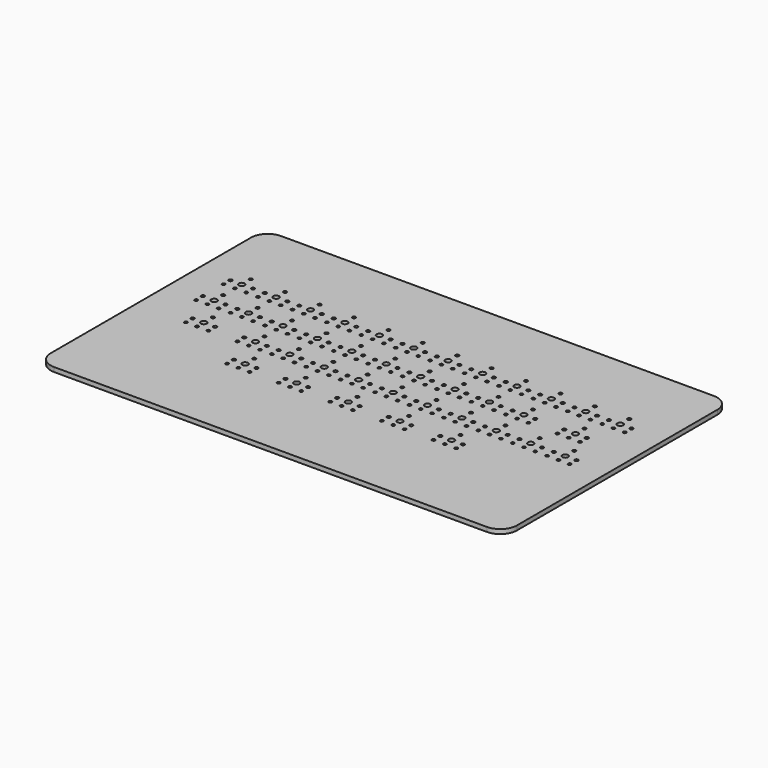
from build123d import *

# Parameters (mm, degrees)
F0_R     = 0.7
F0_R_2   = 0.775
F0_R_3   = 1.3
F0_R_4   = 0.75
F1_DEPTH = 2
F3_DEPTH = 2


with BuildPart() as f1:
    # F0 (on Top) → F1 (new body)
    with BuildSketch(Plane.XY):
        with BuildLine():
            Line((103.010971, 57.536927), (-91.989029, 57.536927))
            ThreePointArc((-91.989029, 57.536927), (-97.29233, 55.340228), (-99.489029, 50.036927))
            Line((-99.489029, 50.036927), (-99.489029, -54.963073))
            ThreePointArc((-99.489029, -54.963073), (-97.29233, -60.266374), (-91.989029, -62.463073))
            Line((-91.989029, -62.463073), (103.010971, -62.463073))
            ThreePointArc((103.010971, -62.463073), (108.314272, -60.266374), (110.510971, -54.963073))
            Line((110.510971, -54.963073), (110.510971, 50.036927))
            ThreePointArc((110.510971, 50.036927), (108.314272, 55.340228), (103.010971, 57.536927))
        make_face()
        with Locations((-77.069029, -14.723073)):
            Circle(F0_R, mode=Mode.SUBTRACT)
        with Locations((-77.069029, -10.913073)):
            Circle(F0_R_2, mode=Mode.SUBTRACT)
        with Locations((-71.989029, -14.723073)):
            Circle(F0_R, mode=Mode.SUBTRACT)
        with Locations((-66.909029, -14.723073)):
            Circle(F0_R, mode=Mode.SUBTRACT)
        with Locations((-71.989029, -10.913073)):
            Circle(F0_R_3, mode=Mode.SUBTRACT)
        with Locations((-66.909029, -10.913073)):
            Circle(F0_R_2, mode=Mode.SUBTRACT)
        with Locations((-53.819029, -14.723073)):
            Circle(F0_R, mode=Mode.SUBTRACT)
        with Locations((-48.739029, -14.723073)):
            Circle(F0_R, mode=Mode.SUBTRACT)
        with Locations((-53.819029, -10.913073)):
            Circle(F0_R_2, mode=Mode.SUBTRACT)
        with Locations((-48.739029, -10.913073)):
            Circle(F0_R_3, mode=Mode.SUBTRACT)
        with Locations((-71.989029, -5.833073)):
            Circle(F0_R_4, mode=Mode.SUBTRACT)
        with Locations((-48.739029, -5.833073)):
            Circle(F0_R_4, mode=Mode.SUBTRACT)
        with Locations((-46.069029, -30.223073)):
            Circle(F0_R, mode=Mode.SUBTRACT)
        with Locations((-40.989029, -30.223073)):
            Circle(F0_R, mode=Mode.SUBTRACT)
        with Locations((-35.909029, -30.223073)):
            Circle(F0_R, mode=Mode.SUBTRACT)
        with Locations((-46.069029, -26.413073)):
            Circle(F0_R_2, mode=Mode.SUBTRACT)
        with Locations((-40.989029, -26.413073)):
            Circle(F0_R_3, mode=Mode.SUBTRACT)
        with Locations((-35.909029, -26.413073)):
            Circle(F0_R_2, mode=Mode.SUBTRACT)
        with Locations((-22.819029, -30.223073)):
            Circle(F0_R, mode=Mode.SUBTRACT)
        with Locations((-22.819029, -26.413073)):
            Circle(F0_R_2, mode=Mode.SUBTRACT)
        with Locations((-40.989029, -21.333073)):
            Circle(F0_R_4, mode=Mode.SUBTRACT)
        with Locations((-17.739029, -30.223073)):
            Circle(F0_R, mode=Mode.SUBTRACT)
        with Locations((-12.659029, -30.223073)):
            Circle(F0_R, mode=Mode.SUBTRACT)
        with Locations((-17.739029, -26.413073)):
            Circle(F0_R_3, mode=Mode.SUBTRACT)
        with Locations((-12.659029, -26.413073)):
            Circle(F0_R_2, mode=Mode.SUBTRACT)
        with Locations((0.430971, -30.223073)):
            Circle(F0_R, mode=Mode.SUBTRACT)
        with Locations((0.430971, -26.413073)):
            Circle(F0_R_2, mode=Mode.SUBTRACT)
        with Locations((-17.739029, -21.333073)):
            Circle(F0_R_4, mode=Mode.SUBTRACT)
        with Locations((-43.659029, -14.723073)):
            Circle(F0_R, mode=Mode.SUBTRACT)
        with Locations((-38.319029, -14.723073)):
            Circle(F0_R, mode=Mode.SUBTRACT)
        with Locations((-43.659029, -10.913073)):
            Circle(F0_R_2, mode=Mode.SUBTRACT)
        with Locations((-38.319029, -10.913073)):
            Circle(F0_R_2, mode=Mode.SUBTRACT)
        with Locations((-33.239029, -14.723073)):
            Circle(F0_R, mode=Mode.SUBTRACT)
        with Locations((-28.159029, -14.723073)):
            Circle(F0_R, mode=Mode.SUBTRACT)
        with Locations((-22.819029, -14.723073)):
            Circle(F0_R, mode=Mode.SUBTRACT)
        with Locations((-33.239029, -10.913073)):
            Circle(F0_R_3, mode=Mode.SUBTRACT)
        with Locations((-28.159029, -10.913073)):
            Circle(F0_R_2, mode=Mode.SUBTRACT)
        with Locations((-22.819029, -10.913073)):
            Circle(F0_R_2, mode=Mode.SUBTRACT)
        with Locations((-33.239029, -5.833073)):
            Circle(F0_R_4, mode=Mode.SUBTRACT)
        with Locations((-17.739029, -14.723073)):
            Circle(F0_R, mode=Mode.SUBTRACT)
        with Locations((-12.659029, -14.723073)):
            Circle(F0_R, mode=Mode.SUBTRACT)
        with Locations((-17.739029, -10.913073)):
            Circle(F0_R_3, mode=Mode.SUBTRACT)
        with Locations((-12.659029, -10.913073)):
            Circle(F0_R_2, mode=Mode.SUBTRACT)
        with Locations((-7.319029, -14.723073)):
            Circle(F0_R, mode=Mode.SUBTRACT)
        with Locations((-2.239029, -14.723073)):
            Circle(F0_R, mode=Mode.SUBTRACT)
        with Locations((2.840971, -14.723073)):
            Circle(F0_R, mode=Mode.SUBTRACT)
        with Locations((-7.319029, -10.913073)):
            Circle(F0_R_2, mode=Mode.SUBTRACT)
        with Locations((-2.239029, -10.913073)):
            Circle(F0_R_3, mode=Mode.SUBTRACT)
        with Locations((2.840971, -10.913073)):
            Circle(F0_R_2, mode=Mode.SUBTRACT)
        with Locations((-17.739029, -5.833073)):
            Circle(F0_R_4, mode=Mode.SUBTRACT)
        with Locations((-2.239029, -5.833073)):
            Circle(F0_R_4, mode=Mode.SUBTRACT)
        with Locations((5.510971, -30.223073)):
            Circle(F0_R, mode=Mode.SUBTRACT)
        with Locations((10.590971, -30.223073)):
            Circle(F0_R, mode=Mode.SUBTRACT)
        with Locations((5.510971, -26.413073)):
            Circle(F0_R_3, mode=Mode.SUBTRACT)
        with Locations((10.590971, -26.413073)):
            Circle(F0_R_2, mode=Mode.SUBTRACT)
        with Locations((23.680971, -30.223073)):
            Circle(F0_R, mode=Mode.SUBTRACT)
        with Locations((28.760971, -30.223073)):
            Circle(F0_R, mode=Mode.SUBTRACT)
        with Locations((23.680971, -26.413073)):
            Circle(F0_R_2, mode=Mode.SUBTRACT)
        with Locations((28.760971, -26.413073)):
            Circle(F0_R_3, mode=Mode.SUBTRACT)
        with Locations((5.510971, -21.333073)):
            Circle(F0_R_4, mode=Mode.SUBTRACT)
        with Locations((28.760971, -21.333073)):
            Circle(F0_R_4, mode=Mode.SUBTRACT)
        with Locations((33.840971, -30.223073)):
            Circle(F0_R, mode=Mode.SUBTRACT)
        with Locations((33.840971, -26.413073)):
            Circle(F0_R_2, mode=Mode.SUBTRACT)
        with Locations((46.930971, -30.223073)):
            Circle(F0_R, mode=Mode.SUBTRACT)
        with Locations((52.010971, -30.223073)):
            Circle(F0_R, mode=Mode.SUBTRACT)
        with Locations((57.090971, -30.223073)):
            Circle(F0_R, mode=Mode.SUBTRACT)
        with Locations((46.930971, -26.413073)):
            Circle(F0_R_2, mode=Mode.SUBTRACT)
        with Locations((52.010971, -26.413073)):
            Circle(F0_R_3, mode=Mode.SUBTRACT)
        with Locations((57.090971, -26.413073)):
            Circle(F0_R_2, mode=Mode.SUBTRACT)
        with Locations((52.010971, -21.333073)):
            Circle(F0_R_4, mode=Mode.SUBTRACT)
        with Locations((8.180971, -14.723073)):
            Circle(F0_R, mode=Mode.SUBTRACT)
        with Locations((13.260971, -14.723073)):
            Circle(F0_R, mode=Mode.SUBTRACT)
        with Locations((18.340971, -14.723073)):
            Circle(F0_R, mode=Mode.SUBTRACT)
        with Locations((8.180971, -10.913073)):
            Circle(F0_R_2, mode=Mode.SUBTRACT)
        with Locations((13.260971, -10.913073)):
            Circle(F0_R_3, mode=Mode.SUBTRACT)
        with Locations((18.340971, -10.913073)):
            Circle(F0_R_2, mode=Mode.SUBTRACT)
        with Locations((23.680971, -14.723073)):
            Circle(F0_R, mode=Mode.SUBTRACT)
        with Locations((28.760971, -14.723073)):
            Circle(F0_R, mode=Mode.SUBTRACT)
        with Locations((23.680971, -10.913073)):
            Circle(F0_R_2, mode=Mode.SUBTRACT)
        with Locations((28.760971, -10.913073)):
            Circle(F0_R_3, mode=Mode.SUBTRACT)
        with Locations((13.260971, -5.833073)):
            Circle(F0_R_4, mode=Mode.SUBTRACT)
        with Locations((28.760971, -5.833073)):
            Circle(F0_R_4, mode=Mode.SUBTRACT)
        with Locations((33.840971, -14.723073)):
            Circle(F0_R, mode=Mode.SUBTRACT)
        with Locations((39.180971, -14.723073)):
            Circle(F0_R, mode=Mode.SUBTRACT)
        with Locations((44.260971, -14.723073)):
            Circle(F0_R, mode=Mode.SUBTRACT)
        with Locations((33.840971, -10.913073)):
            Circle(F0_R_2, mode=Mode.SUBTRACT)
        with Locations((39.180971, -10.913073)):
            Circle(F0_R_2, mode=Mode.SUBTRACT)
        with Locations((44.260971, -10.913073)):
            Circle(F0_R_3, mode=Mode.SUBTRACT)
        with Locations((49.340971, -14.723073)):
            Circle(F0_R, mode=Mode.SUBTRACT)
        with Locations((54.680971, -14.723073)):
            Circle(F0_R, mode=Mode.SUBTRACT)
        with Locations((49.340971, -10.913073)):
            Circle(F0_R_2, mode=Mode.SUBTRACT)
        with Locations((54.680971, -10.913073)):
            Circle(F0_R_2, mode=Mode.SUBTRACT)
        with Locations((44.260971, -5.833073)):
            Circle(F0_R_4, mode=Mode.SUBTRACT)
        with Locations((59.760971, -14.723073)):
            Circle(F0_R, mode=Mode.SUBTRACT)
        with Locations((64.840971, -14.723073)):
            Circle(F0_R, mode=Mode.SUBTRACT)
        with Locations((70.180971, -14.723073)):
            Circle(F0_R, mode=Mode.SUBTRACT)
        with Locations((59.760971, -10.913073)):
            Circle(F0_R_3, mode=Mode.SUBTRACT)
        with Locations((64.840971, -10.913073)):
            Circle(F0_R_2, mode=Mode.SUBTRACT)
        with Locations((70.180971, -10.913073)):
            Circle(F0_R_2, mode=Mode.SUBTRACT)
        with Locations((75.260971, -14.723073)):
            Circle(F0_R, mode=Mode.SUBTRACT)
        with Locations((80.340971, -14.723073)):
            Circle(F0_R, mode=Mode.SUBTRACT)
        with Locations((75.260971, -10.913073)):
            Circle(F0_R_3, mode=Mode.SUBTRACT)
        with Locations((80.340971, -10.913073)):
            Circle(F0_R_2, mode=Mode.SUBTRACT)
        with Locations((59.760971, -5.833073)):
            Circle(F0_R_4, mode=Mode.SUBTRACT)
        with Locations((75.260971, -5.833073)):
            Circle(F0_R_4, mode=Mode.SUBTRACT)
        with Locations((85.680971, -14.723073)):
            Circle(F0_R, mode=Mode.SUBTRACT)
        with Locations((90.760971, -14.723073)):
            Circle(F0_R, mode=Mode.SUBTRACT)
        with Locations((95.840971, -14.723073)):
            Circle(F0_R, mode=Mode.SUBTRACT)
        with Locations((85.680971, -10.913073)):
            Circle(F0_R_2, mode=Mode.SUBTRACT)
        with Locations((90.760971, -10.913073)):
            Circle(F0_R_3, mode=Mode.SUBTRACT)
        with Locations((95.840971, -10.913073)):
            Circle(F0_R_2, mode=Mode.SUBTRACT)
        with Locations((90.760971, -5.833073)):
            Circle(F0_R_4, mode=Mode.SUBTRACT)
        with Locations((-84.819029, 0.776927)):
            Circle(F0_R, mode=Mode.SUBTRACT)
        with Locations((-79.739029, 0.776927)):
            Circle(F0_R, mode=Mode.SUBTRACT)
        with Locations((-74.659029, 0.776927)):
            Circle(F0_R, mode=Mode.SUBTRACT)
        with Locations((-84.819029, 4.586927)):
            Circle(F0_R_2, mode=Mode.SUBTRACT)
        with Locations((-79.739029, 4.586927)):
            Circle(F0_R_3, mode=Mode.SUBTRACT)
        with Locations((-74.659029, 4.586927)):
            Circle(F0_R_2, mode=Mode.SUBTRACT)
        with Locations((-79.739029, 9.666927)):
            Circle(F0_R_4, mode=Mode.SUBTRACT)
        with Locations((-69.319029, 0.776927)):
            Circle(F0_R, mode=Mode.SUBTRACT)
        with Locations((-64.239029, 0.776927)):
            Circle(F0_R, mode=Mode.SUBTRACT)
        with Locations((-69.319029, 4.586927)):
            Circle(F0_R_2, mode=Mode.SUBTRACT)
        with Locations((-64.239029, 4.586927)):
            Circle(F0_R_3, mode=Mode.SUBTRACT)
        with Locations((-59.159029, 0.776927)):
            Circle(F0_R, mode=Mode.SUBTRACT)
        with Locations((-53.819029, 0.776927)):
            Circle(F0_R, mode=Mode.SUBTRACT)
        with Locations((-48.739029, 0.776927)):
            Circle(F0_R, mode=Mode.SUBTRACT)
        with Locations((-59.159029, 4.586927)):
            Circle(F0_R_2, mode=Mode.SUBTRACT)
        with Locations((-53.819029, 4.586927)):
            Circle(F0_R_2, mode=Mode.SUBTRACT)
        with Locations((-48.739029, 4.586927)):
            Circle(F0_R_3, mode=Mode.SUBTRACT)
        with Locations((-64.239029, 9.666927)):
            Circle(F0_R_4, mode=Mode.SUBTRACT)
        with Locations((-48.739029, 9.666927)):
            Circle(F0_R_4, mode=Mode.SUBTRACT)
        with Locations((-84.819029, 16.276927)):
            Circle(F0_R, mode=Mode.SUBTRACT)
        with Locations((-79.739029, 16.276927)):
            Circle(F0_R, mode=Mode.SUBTRACT)
        with Locations((-74.659029, 16.276927)):
            Circle(F0_R, mode=Mode.SUBTRACT)
        with Locations((-84.819029, 20.086927)):
            Circle(F0_R_2, mode=Mode.SUBTRACT)
        with Locations((-79.739029, 20.086927)):
            Circle(F0_R_3, mode=Mode.SUBTRACT)
        with Locations((-74.659029, 20.086927)):
            Circle(F0_R_2, mode=Mode.SUBTRACT)
        with Locations((-79.739029, 25.166927)):
            Circle(F0_R_4, mode=Mode.SUBTRACT)
        with Locations((-69.319029, 16.276927)):
            Circle(F0_R, mode=Mode.SUBTRACT)
        with Locations((-64.239029, 16.276927)):
            Circle(F0_R, mode=Mode.SUBTRACT)
        with Locations((-59.159029, 16.276927)):
            Circle(F0_R, mode=Mode.SUBTRACT)
        with Locations((-53.819029, 16.276927)):
            Circle(F0_R, mode=Mode.SUBTRACT)
        with Locations((-48.739029, 16.276927)):
            Circle(F0_R, mode=Mode.SUBTRACT)
        with Locations((-69.319029, 20.086927)):
            Circle(F0_R_2, mode=Mode.SUBTRACT)
        with Locations((-64.239029, 20.086927)):
            Circle(F0_R_3, mode=Mode.SUBTRACT)
        with Locations((-64.239029, 25.166927)):
            Circle(F0_R_4, mode=Mode.SUBTRACT)
        with Locations((-59.159029, 20.086927)):
            Circle(F0_R_2, mode=Mode.SUBTRACT)
        with Locations((-53.819029, 20.086927)):
            Circle(F0_R_2, mode=Mode.SUBTRACT)
        with Locations((-48.739029, 20.086927)):
            Circle(F0_R_3, mode=Mode.SUBTRACT)
        with Locations((-48.739029, 25.166927)):
            Circle(F0_R_4, mode=Mode.SUBTRACT)
        with Locations((-43.659029, 0.776927)):
            Circle(F0_R, mode=Mode.SUBTRACT)
        with Locations((-38.319029, 0.776927)):
            Circle(F0_R, mode=Mode.SUBTRACT)
        with Locations((-43.659029, 4.586927)):
            Circle(F0_R_2, mode=Mode.SUBTRACT)
        with Locations((-38.319029, 4.586927)):
            Circle(F0_R_2, mode=Mode.SUBTRACT)
        with Locations((-33.239029, 0.776927)):
            Circle(F0_R, mode=Mode.SUBTRACT)
        with Locations((-28.159029, 0.776927)):
            Circle(F0_R, mode=Mode.SUBTRACT)
        with Locations((-22.819029, 0.776927)):
            Circle(F0_R, mode=Mode.SUBTRACT)
        with Locations((-33.239029, 4.586927)):
            Circle(F0_R_3, mode=Mode.SUBTRACT)
        with Locations((-28.159029, 4.586927)):
            Circle(F0_R_2, mode=Mode.SUBTRACT)
        with Locations((-22.819029, 4.586927)):
            Circle(F0_R_2, mode=Mode.SUBTRACT)
        with Locations((-33.239029, 9.666927)):
            Circle(F0_R_4, mode=Mode.SUBTRACT)
        with Locations((-17.739029, 0.776927)):
            Circle(F0_R, mode=Mode.SUBTRACT)
        with Locations((-12.659029, 0.776927)):
            Circle(F0_R, mode=Mode.SUBTRACT)
        with Locations((-17.739029, 4.586927)):
            Circle(F0_R_3, mode=Mode.SUBTRACT)
        with Locations((-12.659029, 4.586927)):
            Circle(F0_R_2, mode=Mode.SUBTRACT)
        with Locations((-7.319029, 0.776927)):
            Circle(F0_R, mode=Mode.SUBTRACT)
        with Locations((-2.239029, 0.776927)):
            Circle(F0_R, mode=Mode.SUBTRACT)
        with Locations((2.840971, 0.776927)):
            Circle(F0_R, mode=Mode.SUBTRACT)
        with Locations((-7.319029, 4.586927)):
            Circle(F0_R_2, mode=Mode.SUBTRACT)
        with Locations((-2.239029, 4.586927)):
            Circle(F0_R_3, mode=Mode.SUBTRACT)
        with Locations((2.840971, 4.586927)):
            Circle(F0_R_2, mode=Mode.SUBTRACT)
        with Locations((-17.739029, 9.666927)):
            Circle(F0_R_4, mode=Mode.SUBTRACT)
        with Locations((-2.239029, 9.666927)):
            Circle(F0_R_4, mode=Mode.SUBTRACT)
        with Locations((-43.659029, 16.276927)):
            Circle(F0_R, mode=Mode.SUBTRACT)
        with Locations((-38.319029, 16.276927)):
            Circle(F0_R, mode=Mode.SUBTRACT)
        with Locations((-33.239029, 16.276927)):
            Circle(F0_R, mode=Mode.SUBTRACT)
        with Locations((-28.159029, 16.276927)):
            Circle(F0_R, mode=Mode.SUBTRACT)
        with Locations((-22.819029, 16.276927)):
            Circle(F0_R, mode=Mode.SUBTRACT)
        with Locations((-43.659029, 20.086927)):
            Circle(F0_R_2, mode=Mode.SUBTRACT)
        with Locations((-38.319029, 20.086927)):
            Circle(F0_R_2, mode=Mode.SUBTRACT)
        with Locations((-33.239029, 20.086927)):
            Circle(F0_R_3, mode=Mode.SUBTRACT)
        with Locations((-28.159029, 20.086927)):
            Circle(F0_R_2, mode=Mode.SUBTRACT)
        with Locations((-22.819029, 20.086927)):
            Circle(F0_R_2, mode=Mode.SUBTRACT)
        with Locations((-33.239029, 25.166927)):
            Circle(F0_R_4, mode=Mode.SUBTRACT)
        with Locations((-17.739029, 16.276927)):
            Circle(F0_R, mode=Mode.SUBTRACT)
        with Locations((-12.659029, 16.276927)):
            Circle(F0_R, mode=Mode.SUBTRACT)
        with Locations((-7.319029, 16.276927)):
            Circle(F0_R, mode=Mode.SUBTRACT)
        with Locations((-2.239029, 16.276927)):
            Circle(F0_R, mode=Mode.SUBTRACT)
        with Locations((2.840971, 16.276927)):
            Circle(F0_R, mode=Mode.SUBTRACT)
        with Locations((-17.739029, 20.086927)):
            Circle(F0_R_3, mode=Mode.SUBTRACT)
        with Locations((-12.659029, 20.086927)):
            Circle(F0_R_2, mode=Mode.SUBTRACT)
        with Locations((-17.739029, 25.166927)):
            Circle(F0_R_4, mode=Mode.SUBTRACT)
        with Locations((-7.319029, 20.086927)):
            Circle(F0_R_2, mode=Mode.SUBTRACT)
        with Locations((-2.239029, 20.086927)):
            Circle(F0_R_3, mode=Mode.SUBTRACT)
        with Locations((2.840971, 20.086927)):
            Circle(F0_R_2, mode=Mode.SUBTRACT)
        with Locations((-2.239029, 25.166927)):
            Circle(F0_R_4, mode=Mode.SUBTRACT)
        with Locations((8.180971, 0.776927)):
            Circle(F0_R, mode=Mode.SUBTRACT)
        with Locations((13.260971, 0.776927)):
            Circle(F0_R, mode=Mode.SUBTRACT)
        with Locations((18.340971, 0.776927)):
            Circle(F0_R, mode=Mode.SUBTRACT)
        with Locations((8.180971, 4.586927)):
            Circle(F0_R_2, mode=Mode.SUBTRACT)
        with Locations((13.260971, 4.586927)):
            Circle(F0_R_3, mode=Mode.SUBTRACT)
        with Locations((18.340971, 4.586927)):
            Circle(F0_R_2, mode=Mode.SUBTRACT)
        with Locations((23.680971, 0.776927)):
            Circle(F0_R, mode=Mode.SUBTRACT)
        with Locations((28.760971, 0.776927)):
            Circle(F0_R, mode=Mode.SUBTRACT)
        with Locations((23.680971, 4.586927)):
            Circle(F0_R_2, mode=Mode.SUBTRACT)
        with Locations((28.760971, 4.586927)):
            Circle(F0_R_3, mode=Mode.SUBTRACT)
        with Locations((13.260971, 9.666927)):
            Circle(F0_R_4, mode=Mode.SUBTRACT)
        with Locations((28.760971, 9.666927)):
            Circle(F0_R_4, mode=Mode.SUBTRACT)
        with Locations((33.840971, 0.776927)):
            Circle(F0_R, mode=Mode.SUBTRACT)
        with Locations((39.180971, 0.776927)):
            Circle(F0_R, mode=Mode.SUBTRACT)
        with Locations((44.260971, 0.776927)):
            Circle(F0_R, mode=Mode.SUBTRACT)
        with Locations((33.840971, 4.586927)):
            Circle(F0_R_2, mode=Mode.SUBTRACT)
        with Locations((39.180971, 4.586927)):
            Circle(F0_R_2, mode=Mode.SUBTRACT)
        with Locations((44.260971, 4.586927)):
            Circle(F0_R_3, mode=Mode.SUBTRACT)
        with Locations((49.340971, 0.776927)):
            Circle(F0_R, mode=Mode.SUBTRACT)
        with Locations((54.680971, 0.776927)):
            Circle(F0_R, mode=Mode.SUBTRACT)
        with Locations((49.340971, 4.586927)):
            Circle(F0_R_2, mode=Mode.SUBTRACT)
        with Locations((54.680971, 4.586927)):
            Circle(F0_R_2, mode=Mode.SUBTRACT)
        with Locations((44.260971, 9.666927)):
            Circle(F0_R_4, mode=Mode.SUBTRACT)
        with Locations((8.180971, 16.276927)):
            Circle(F0_R, mode=Mode.SUBTRACT)
        with Locations((13.260971, 16.276927)):
            Circle(F0_R, mode=Mode.SUBTRACT)
        with Locations((18.340971, 16.276927)):
            Circle(F0_R, mode=Mode.SUBTRACT)
        with Locations((23.680971, 16.276927)):
            Circle(F0_R, mode=Mode.SUBTRACT)
        with Locations((28.760971, 16.276927)):
            Circle(F0_R, mode=Mode.SUBTRACT)
        with Locations((8.180971, 20.086927)):
            Circle(F0_R_2, mode=Mode.SUBTRACT)
        with Locations((13.260971, 20.086927)):
            Circle(F0_R_3, mode=Mode.SUBTRACT)
        with Locations((18.340971, 20.086927)):
            Circle(F0_R_2, mode=Mode.SUBTRACT)
        with Locations((13.260971, 25.166927)):
            Circle(F0_R_4, mode=Mode.SUBTRACT)
        with Locations((23.680971, 20.086927)):
            Circle(F0_R_2, mode=Mode.SUBTRACT)
        with Locations((28.760971, 20.086927)):
            Circle(F0_R_3, mode=Mode.SUBTRACT)
        with Locations((28.760971, 25.166927)):
            Circle(F0_R_4, mode=Mode.SUBTRACT)
        with Locations((33.840971, 16.276927)):
            Circle(F0_R, mode=Mode.SUBTRACT)
        with Locations((39.180971, 16.276927)):
            Circle(F0_R, mode=Mode.SUBTRACT)
        with Locations((44.260971, 16.276927)):
            Circle(F0_R, mode=Mode.SUBTRACT)
        with Locations((49.340971, 16.276927)):
            Circle(F0_R, mode=Mode.SUBTRACT)
        with Locations((54.680971, 16.276927)):
            Circle(F0_R, mode=Mode.SUBTRACT)
        with Locations((33.840971, 20.086927)):
            Circle(F0_R_2, mode=Mode.SUBTRACT)
        with Locations((39.180971, 20.086927)):
            Circle(F0_R_2, mode=Mode.SUBTRACT)
        with Locations((44.260971, 20.086927)):
            Circle(F0_R_3, mode=Mode.SUBTRACT)
        with Locations((44.260971, 25.166927)):
            Circle(F0_R_4, mode=Mode.SUBTRACT)
        with Locations((49.340971, 20.086927)):
            Circle(F0_R_2, mode=Mode.SUBTRACT)
        with Locations((54.680971, 20.086927)):
            Circle(F0_R_2, mode=Mode.SUBTRACT)
        with Locations((59.760971, 0.776927)):
            Circle(F0_R, mode=Mode.SUBTRACT)
        with Locations((64.840971, 0.776927)):
            Circle(F0_R, mode=Mode.SUBTRACT)
        with Locations((59.760971, 4.586927)):
            Circle(F0_R_3, mode=Mode.SUBTRACT)
        with Locations((64.840971, 4.586927)):
            Circle(F0_R_2, mode=Mode.SUBTRACT)
        with Locations((77.930971, 0.776927)):
            Circle(F0_R, mode=Mode.SUBTRACT)
        with Locations((83.010971, 0.776927)):
            Circle(F0_R, mode=Mode.SUBTRACT)
        with Locations((77.930971, 4.586927)):
            Circle(F0_R_2, mode=Mode.SUBTRACT)
        with Locations((83.010971, 4.586927)):
            Circle(F0_R_3, mode=Mode.SUBTRACT)
        with Locations((59.760971, 9.666927)):
            Circle(F0_R_4, mode=Mode.SUBTRACT)
        with Locations((83.010971, 9.666927)):
            Circle(F0_R_4, mode=Mode.SUBTRACT)
        with Locations((88.090971, 0.776927)):
            Circle(F0_R, mode=Mode.SUBTRACT)
        with Locations((88.090971, 4.586927)):
            Circle(F0_R_2, mode=Mode.SUBTRACT)
        with Locations((59.760971, 16.276927)):
            Circle(F0_R, mode=Mode.SUBTRACT)
        with Locations((64.840971, 16.276927)):
            Circle(F0_R, mode=Mode.SUBTRACT)
        with Locations((70.180971, 16.276927)):
            Circle(F0_R, mode=Mode.SUBTRACT)
        with Locations((75.260971, 16.276927)):
            Circle(F0_R, mode=Mode.SUBTRACT)
        with Locations((80.340971, 16.276927)):
            Circle(F0_R, mode=Mode.SUBTRACT)
        with Locations((59.760971, 20.086927)):
            Circle(F0_R_3, mode=Mode.SUBTRACT)
        with Locations((64.840971, 20.086927)):
            Circle(F0_R_2, mode=Mode.SUBTRACT)
        with Locations((70.180971, 20.086927)):
            Circle(F0_R_2, mode=Mode.SUBTRACT)
        with Locations((59.760971, 25.166927)):
            Circle(F0_R_4, mode=Mode.SUBTRACT)
        with Locations((75.260971, 20.086927)):
            Circle(F0_R_3, mode=Mode.SUBTRACT)
        with Locations((80.340971, 20.086927)):
            Circle(F0_R_2, mode=Mode.SUBTRACT)
        with Locations((75.260971, 25.166927)):
            Circle(F0_R_4, mode=Mode.SUBTRACT)
        with Locations((85.680971, 16.276927)):
            Circle(F0_R, mode=Mode.SUBTRACT)
        with Locations((90.760971, 16.276927)):
            Circle(F0_R, mode=Mode.SUBTRACT)
        with Locations((95.840971, 16.276927)):
            Circle(F0_R, mode=Mode.SUBTRACT)
        with Locations((85.680971, 20.086927)):
            Circle(F0_R_2, mode=Mode.SUBTRACT)
        with Locations((90.760971, 20.086927)):
            Circle(F0_R_3, mode=Mode.SUBTRACT)
        with Locations((95.840971, 20.086927)):
            Circle(F0_R_2, mode=Mode.SUBTRACT)
        with Locations((90.760971, 25.166927)):
            Circle(F0_R_4, mode=Mode.SUBTRACT)
    extrude(amount=F1_DEPTH)

    # F2 (on face) → F3 (join, through all)
    with BuildSketch(Plane.XY.offset(2)):
        with BuildLine():
            Line((110.510971, -54.963073), (-99.489029, -54.963073))
            ThreePointArc((-99.489029, -54.963073), (-97.29233, -60.266374), (-91.989029, -62.463073))
            Line((-91.989029, -62.463073), (103.010971, -62.463073))
            ThreePointArc((103.010971, -62.463073), (108.314272, -60.266374), (110.510971, -54.963073))
        make_face()
        with BuildLine():
            ThreePointArc((-91.989029, -62.463073), (-97.29233, -60.266374), (-99.489029, -54.963073))
            Line((-99.489029, -54.963073), (-99.489029, -62.763073))
            ThreePointArc((-99.489029, -62.763073), (-97.29233, -68.066374), (-91.989029, -70.263073))
            Line((-91.989029, -70.263073), (103.010971, -70.263073))
            ThreePointArc((103.010971, -70.263073), (108.314272, -68.066374), (110.510971, -62.763073))
            Line((110.510971, -62.763073), (110.510971, -54.963073))
            ThreePointArc((110.510971, -54.963073), (108.314272, -60.266374), (103.010971, -62.463073))
            Line((103.010971, -62.463073), (-91.989029, -62.463073))
        make_face()
    extrude(amount=-F3_DEPTH)


solid = f1.part
